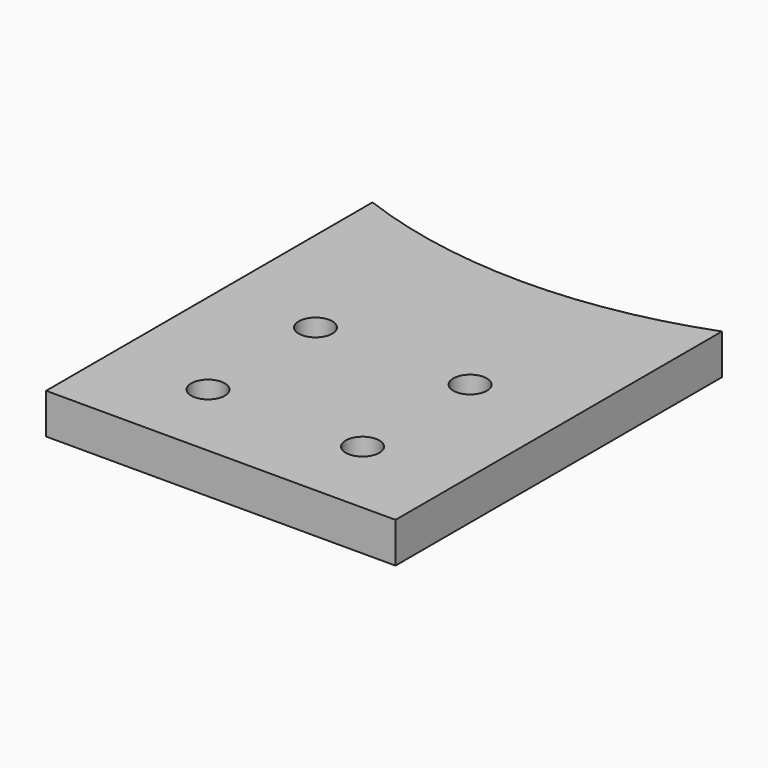
from build123d import *

# Parameters (mm, degrees)
CYLINDER1840_R              = 74
CYLINDER1840_DEPTH          = 64
CYLINDER1831_R              = 2.5
CYLINDER1831_DEPTH          = 20
CYLINDER1830_R              = 2.5
CYLINDER1830_DEPTH          = 20
COMPOUND931_PLACEMENT_ANGLE = 90
CYLINDER1828_R              = 2.5
CYLINDER1828_DEPTH          = 20
CYLINDER1829_R              = 2.5
CYLINDER1829_DEPTH          = 20
COMPOUND930_PLACEMENT_ANGLE = 90
BOX785_W                    = 72
BOX785_H                    = 52
BOX785_DEPTH                = 6


with BuildPart() as obj1:
    # Cylinder1840 → Cylinder1840 (new body)
    with BuildSketch(Plane.XY.offset(25)):
        Circle(CYLINDER1840_R)
    extrude(amount=CYLINDER1840_DEPTH)


with BuildPart() as obj2:
    # Cylinder1831 → Cylinder1831 (new body)
    with BuildSketch(Plane(origin=(-90, -10, 66), x_dir=(1, 0, 0), z_dir=(0, 0, 1))):
        Circle(CYLINDER1831_R)
    extrude(amount=CYLINDER1831_DEPTH)


with BuildPart() as compound931:
    # Cylinder1830 → Cylinder1830 (new body)
    with BuildSketch(Plane(origin=(-110, -10, 66), x_dir=(1, 0, 0), z_dir=(0, 0, 1))):
        Circle(CYLINDER1830_R)
    extrude(amount=CYLINDER1830_DEPTH)

    # Compound931: union obj2
    add(obj2.part)


with BuildPart() as compound931_1:
    # Compound931 placement: moved
    add(compound931.part.moved(Location((-21.5, -8, 0))).rotate(Axis((-21.5, -8, 0), (0, 0, 1)), COMPOUND931_PLACEMENT_ANGLE))


with BuildPart() as obj3:
    # Cylinder1828 → Cylinder1828 (new body)
    with BuildSketch(Plane(origin=(-90, -10, 66), x_dir=(1, 0, 0), z_dir=(0, 0, 1))):
        Circle(CYLINDER1828_R)
    extrude(amount=CYLINDER1828_DEPTH)


with BuildPart() as compound932:
    # Cylinder1829 → Cylinder1829 (new body)
    with BuildSketch(Plane(origin=(-110, -10, 66), x_dir=(1, 0, 0), z_dir=(0, 0, 1))):
        Circle(CYLINDER1829_R)
    extrude(amount=CYLINDER1829_DEPTH)

    # Compound930: union obj3
    add(obj3.part)


with BuildPart() as compound932_1:
    # Compound930 placement: moved
    add(compound932.part.moved(Location((1.5, -8, 0))).rotate(Axis((1.5, -8, 0), (0, 0, 1)), COMPOUND930_PLACEMENT_ANGLE))

    # Compound932: union Compound931
    add(compound931_1.part)


with BuildPart() as cut597:
    # Box785 → Box785 (new body)
    with BuildSketch(Plane(origin=(26, -130, 78), x_dir=(0, 1, 0), z_dir=(0, 0, 1))):
        with Locations((36, 26)):
            Rectangle(BOX785_W, BOX785_H)
    extrude(amount=BOX785_DEPTH)

    # Cut594: cut Compound932
    add(compound932_1.part, mode=Mode.SUBTRACT)

    # Cut597: cut obj1
    add(obj1.part, mode=Mode.SUBTRACT)


solid = cut597.part
